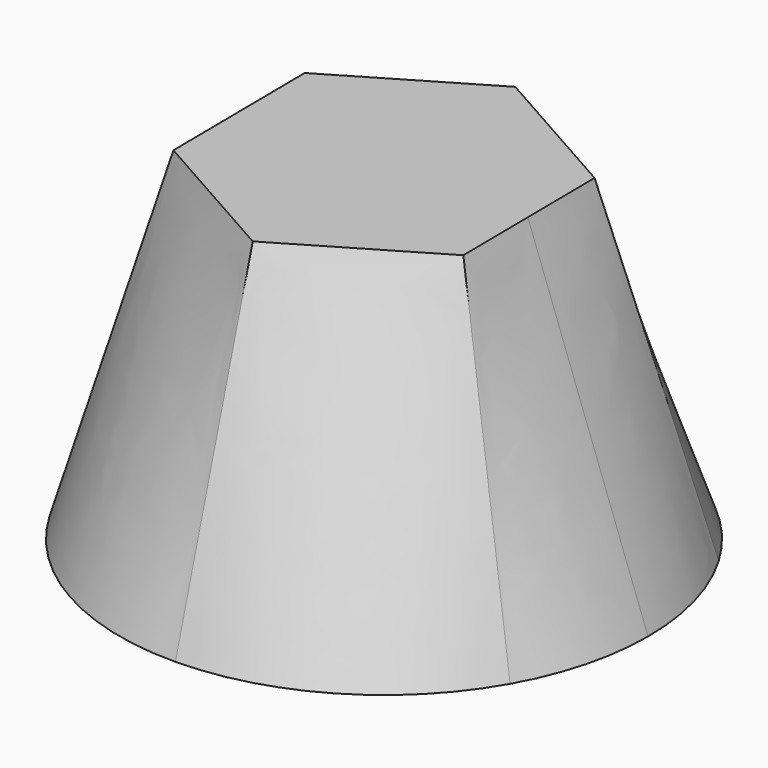
from build123d import *

# Parameters (mm, degrees)
F0_R = 40


with BuildPart() as f3:
    # F0 (on Top) → F3 section 0
    with BuildSketch(Plane.XY):
        Circle(F0_R)
    # F2 (on offset) → F3 section 1
    with BuildSketch(Plane.XY.offset(50)):
        Polygon((0.245347, -25.160663), (21.912447, -12.367855), (21.6671, 12.792808), (-0.245347, 25.160663), (-21.912447, 12.367855), (-21.6671, -12.792808), align=None)
    loft()


solid = f3.part
